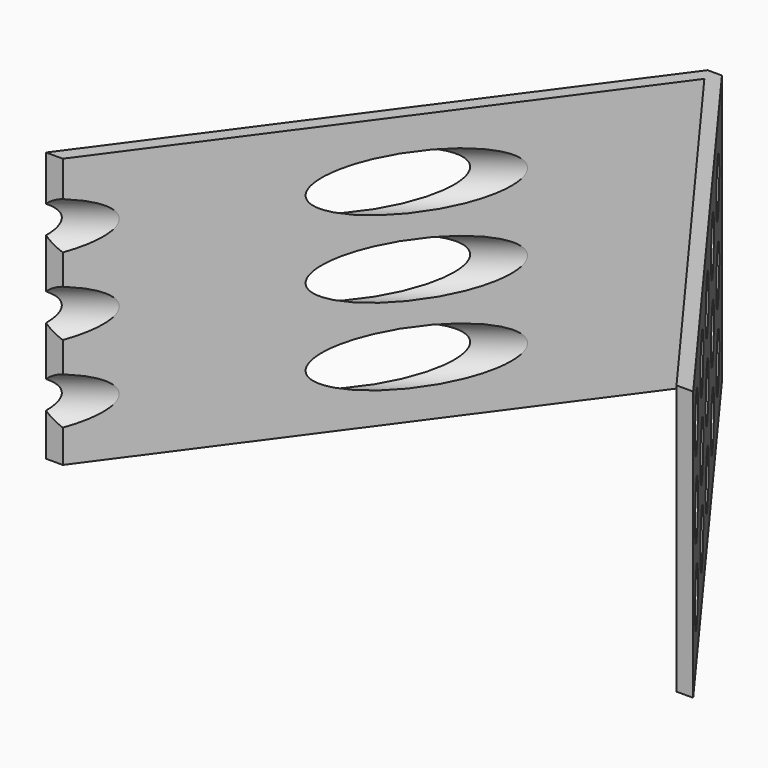
from build123d import *

# Parameters (mm, degrees)
F1_DEPTH = 127
F2_R     = 12.7
F3_DEPTH = 245.7850328086


with BuildPart() as f1:
    # F0 (on Top) → F1 (new body)
    with BuildSketch(Plane.XY):
        Polygon((152.4, -101.6), (3.3724339415, 101.6), (0, 101.6), (-3.3724339415, 101.6), (-152.4, -101.6), (-144.5252817855, -101.6), (0, 95.4611077905), (144.5252817855, -101.6), align=None)
    extrude(amount=F1_DEPTH)

    # F2 (on face) → F3 (cut, through all)
    with BuildSketch(Plane(origin=(50.645168039, 37.1433372317, 0), x_dir=(-0.591400392, 0.8063780604, 0), z_dir=(0.8063780604, 0.591400392, 0))):
        with Locations((-142.906114459, 99.1842150688)):
            Circle(F2_R)
        with Locations((-142.906114459, 62.8622150688)):
            Circle(F2_R)
        with Locations((-142.906114459, 26.5402150688)):
            Circle(F2_R)
        with Locations((-96.170114459, 99.1842150688)):
            Circle(F2_R)
        with Locations((-96.170114459, 62.8622150688)):
            Circle(F2_R)
        with Locations((-96.170114459, 26.5402150688)):
            Circle(F2_R)
        with Locations((-49.434114459, 99.1842150688)):
            Circle(F2_R)
        with Locations((-49.434114459, 62.8622150688)):
            Circle(F2_R)
        with Locations((-49.434114459, 26.5402150688)):
            Circle(F2_R)
        with Locations((-2.698114459, 99.1842150688)):
            Circle(F2_R)
        with Locations((-2.698114459, 62.8622150688)):
            Circle(F2_R)
        with Locations((-2.698114459, 26.5402150688)):
            Circle(F2_R)
        with Locations((44.037885541, 99.1842150688)):
            Circle(F2_R)
        with Locations((44.037885541, 62.8622150688)):
            Circle(F2_R)
        with Locations((44.037885541, 26.5402150688)):
            Circle(F2_R)
    extrude(amount=-F3_DEPTH, mode=Mode.SUBTRACT)


solid = f1.part
